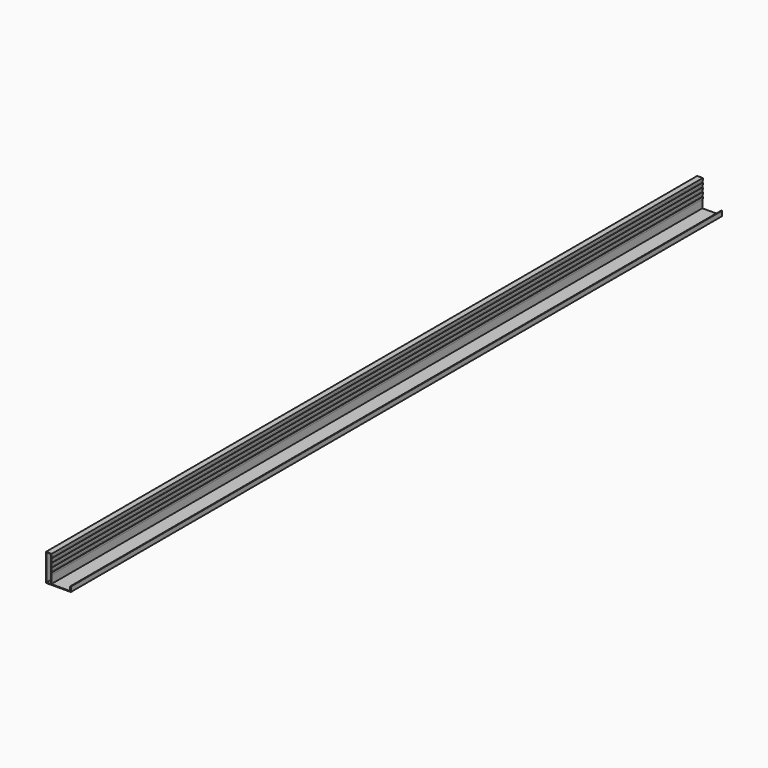
from build123d import *

# Parameters (mm, degrees)
F0_W     = 30.842398
F0_H     = 192.071078
F1_DEPTH = 5923


with BuildPart() as f1:
    # F0 (on Front) → F1 (new body)
    with BuildSketch(Plane.XZ):
        Polygon((-134, 135), (-175, 135), (-175, -65), (5, -65), (5, -30), (0, -30), (0, -60), (-137, -60), (-137, 0), (-134, 0), (-134, 15), (-137, 15), (-137, 30), (-134, 30), (-134, 45), (-137, 45), (-137, 60), (-134, 60), (-134, 75), (-137, 75), (-137, 90), (-134, 90), (-134, 105), (-137, 105), (-137, 120), (-134, 120), align=None)
        with Locations((-156.270437, 36.035539)):
            Rectangle(F0_W, F0_H, mode=Mode.SUBTRACT)
    extrude(amount=F1_DEPTH)


solid = f1.part
